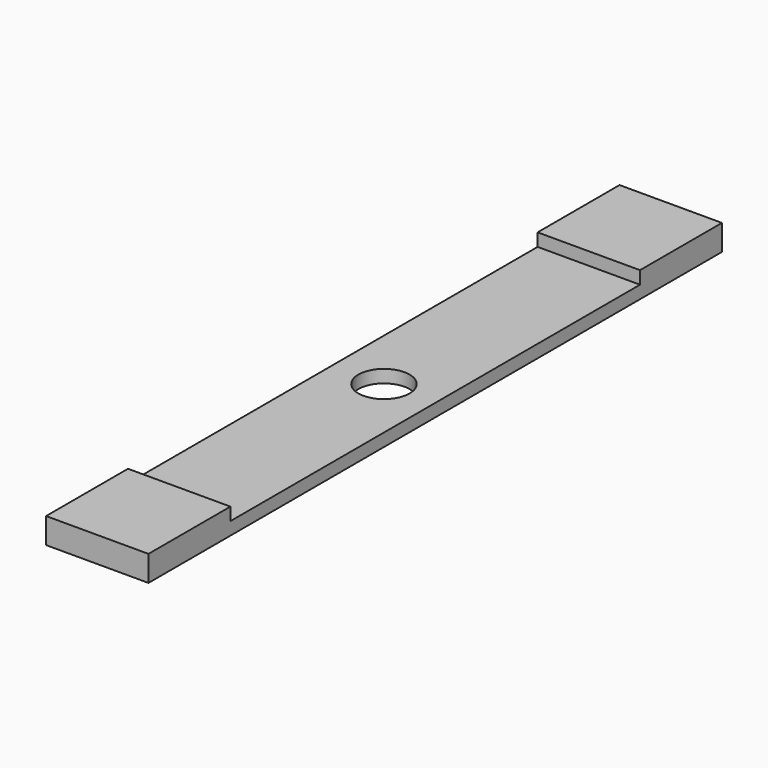
from build123d import *

# Parameters (mm, degrees)
F0_W     = 50.8
F0_H     = 355.6
F0_R     = 12.7
F1_DEPTH = 6.35
F2_W     = 50.8
F2_H     = 50.8
F3_DEPTH = 6.35


with BuildPart() as f1:
    # F0 (on Top) → F1 (new body)
    with BuildSketch(Plane.XY):
        Rectangle(F0_W, F0_H)
        Circle(F0_R, mode=Mode.SUBTRACT)
    extrude(amount=F1_DEPTH)

    # F2 (on face) → F3 (join)
    with BuildSketch(Plane.XY.offset(6.35)):
        with Locations((0, -152.4)):
            Rectangle(F2_W, F2_H)
        with Locations((0, 152.4)):
            Rectangle(F2_W, F2_H)
    extrude(amount=F3_DEPTH)


solid = f1.part
